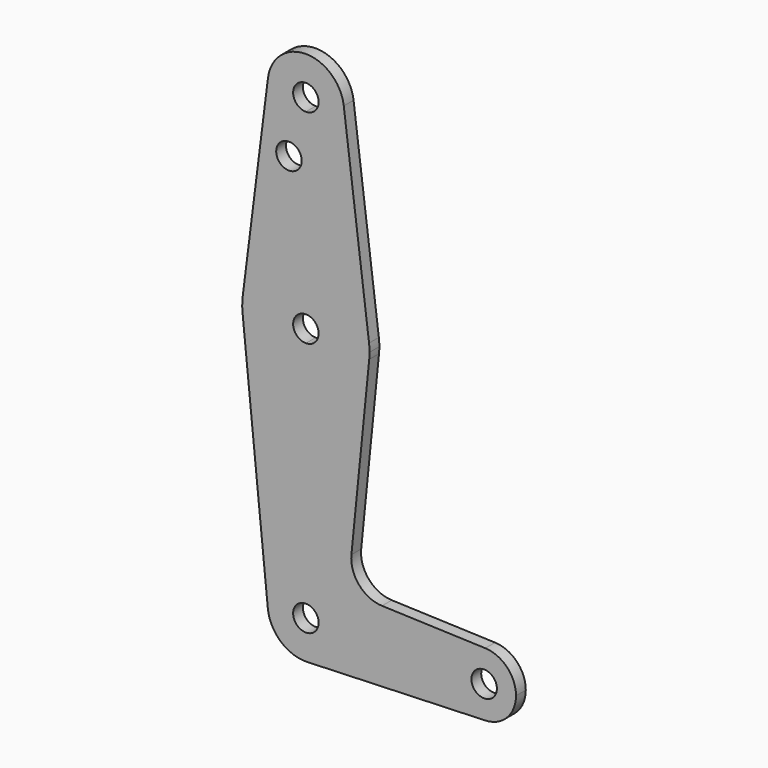
from build123d import *

# Parameters (mm, degrees)
F0_R     = 3.175
F1_DEPTH = 3.048


with BuildPart() as f1:
    # F0 (on Front) → F1 (new body)
    with BuildSketch(Plane.XZ):
        with BuildLine():
            ThreePointArc((0, 60.325), (-3.175, 63.5), (0, 66.675))
            Line((0, 66.675), (0, 79.375))
            ThreePointArc((0, 79.375), (-10.5003255158, 75.40625), (-15.7504882737, 65.484375))
            ThreePointArc((-15.7504882737, 65.484375), (-15.8737259804, 63.7011181195), (-15.795707863, 61.915311353))
            ThreePointArc((-15.795707863, 61.915311353), (-10.6503214207, 51.7277326468), (0, 47.625))
            Line((0, 47.625), (0, 60.325))
        make_face()
        with BuildLine():
            Line((0, 79.375), (0, 66.675))
            ThreePointArc((0, 66.675), (2.2450640303, 65.7450640303), (3.175, 63.5))
            ThreePointArc((3.175, 63.5), (2.2450640303, 61.2549359697), (0, 60.325))
            Line((0, 60.325), (0, 47.625))
            ThreePointArc((0, 47.625), (10.6503214207, 51.7277326468), (15.795707863, 61.915311353))
            ThreePointArc((15.795707863, 61.915311353), (15.8551645738, 62.706664423), (15.875, 63.5))
            ThreePointArc((15.875, 63.5), (15.8438414904, 64.4941387366), (15.7504882737, 65.484375))
            ThreePointArc((15.7504882737, 65.484375), (10.5003255158, 75.40625), (0, 79.375))
        make_face()
        with BuildLine():
            ThreePointArc((-15.7504882737, 65.484375), (-10.5003255158, 75.40625), (0, 79.375))
            Line((0, 79.375), (0, 104.775))
            ThreePointArc((0, 104.775), (-7.14375, 107.9998046905), (-9.4502929642, 115.490625))
            Line((-9.4502929642, 115.490625), (-15.7504882737, 65.484375))
        make_face()
        with Locations((-4.2195925489, 100.0252)):
            Circle(F0_R, mode=Mode.SUBTRACT)
        with BuildLine():
            Line((0, 104.775), (0, 79.375))
            ThreePointArc((0, 79.375), (10.5003255158, 75.40625), (15.7504882737, 65.484375))
            Line((15.7504882737, 65.484375), (9.4502929642, 115.490625))
            ThreePointArc((9.4502929642, 115.490625), (9.5063048942, 114.896483242), (9.525, 114.3))
            ThreePointArc((9.525, 114.3), (6.7351920908, 107.5648079092), (0, 104.775))
        make_face()
        with BuildLine():
            Line((0, 9.536245412), (0, 47.625))
            ThreePointArc((0, 47.625), (-10.6503214207, 51.7277326468), (-15.795707863, 61.915311353))
            Line((-15.795707863, 61.915311353), (-9.4886139614, -0.9519357379))
            ThreePointArc((-9.4886139614, -0.9519357379), (-7.0716995613, 6.3977372463), (0, 9.536245412))
        make_face()
        with BuildLine():
            ThreePointArc((15.795707863, 61.915311353), (10.6503214207, 51.7277326468), (0, 47.625))
            Line((0, 47.625), (0, 9.536245412))
            ThreePointArc((0, 9.536245412), (6.7431437979, 6.7431437979), (9.536245412, 0))
            Line((9.536245412, 0), (36.5125, 0))
            ThreePointArc((36.5125, 0), (38.9392002679, 5.7127044876), (44.7354902521, 7.9323641852))
            Line((44.7354902521, 7.9323641852), (18.9741809246, 8.8595282089))
            ThreePointArc((18.9741809246, 8.8595282089), (13.2695956934, 11.577806662), (11.3496374634, 17.5981962511))
            Line((11.3496374634, 17.5981962511), (15.795707863, 61.915311353))
        make_face()
        with BuildLine():
            ThreePointArc((-9.4502929642, 115.490625), (-7.14375, 107.9998046905), (0, 104.775))
            ThreePointArc((0, 104.775), (6.7351920908, 107.5648079092), (9.525, 114.3))
            ThreePointArc((9.525, 114.3), (9.5063048942, 114.896483242), (9.4502929642, 115.490625))
            ThreePointArc((9.4502929642, 115.490625), (0, 123.825), (-9.4502929642, 115.490625))
        make_face()
        with BuildLine():
            ThreePointArc((3.175, 114.3), (2.2450640303, 112.0549359697), (0, 111.125))
            ThreePointArc((0, 111.125), (-2.2450640303, 116.5450640303), (3.175, 114.3))
        make_face(mode=Mode.SUBTRACT)
        with BuildLine():
            ThreePointArc((9.536245412, 0), (6.7431437979, 6.7431437979), (0, 9.536245412))
            ThreePointArc((0, 9.536245412), (-7.0716995613, 6.3977372463), (-9.4886139614, -0.9519357379))
            ThreePointArc((-9.4886139614, -0.9519357379), (-6.2695068167, -7.1856287709), (0.3429927694, -9.5300751581))
            ThreePointArc((0.3429927694, -9.5300751581), (6.8633388297, -6.6207670754), (9.536245412, 0))
        make_face()
        with BuildLine():
            ThreePointArc((3.175, 0), (-2.2450640303, -2.2450640303), (0, 3.175))
            ThreePointArc((0, 3.175), (2.2450640303, 2.2450640303), (3.175, 0))
        make_face(mode=Mode.SUBTRACT)
        with BuildLine():
            Line((36.5125, 0), (9.536245412, 0))
            ThreePointArc((9.536245412, 0), (6.8633388297, -6.6207670754), (0.3429927694, -9.5300751581))
            Line((0.3429927694, -9.5300751581), (44.7354902521, -7.9323641852))
            ThreePointArc((44.7354902521, -7.9323641852), (38.9392002679, -5.7127044876), (36.5125, 0))
        make_face()
        with BuildLine():
            ThreePointArc((44.7354902521, 7.9323641852), (38.9392002679, 5.7127044876), (36.5125, 0))
            ThreePointArc((36.5125, 0), (38.9392002679, -5.7127044876), (44.7354902521, -7.9323641852))
            ThreePointArc((44.7354902521, -7.9323641852), (50.1627044876, -5.5107997321), (52.3875, 0))
            ThreePointArc((52.3875, 0), (50.1627044876, 5.5107997321), (44.7354902521, 7.9323641852))
        make_face()
        with BuildLine():
            ThreePointArc((47.625, 0), (44.45, -3.175), (41.275, 0))
            ThreePointArc((41.275, 0), (44.45, 3.175), (47.625, 0))
        make_face(mode=Mode.SUBTRACT)
    extrude(amount=F1_DEPTH)


solid = f1.part
